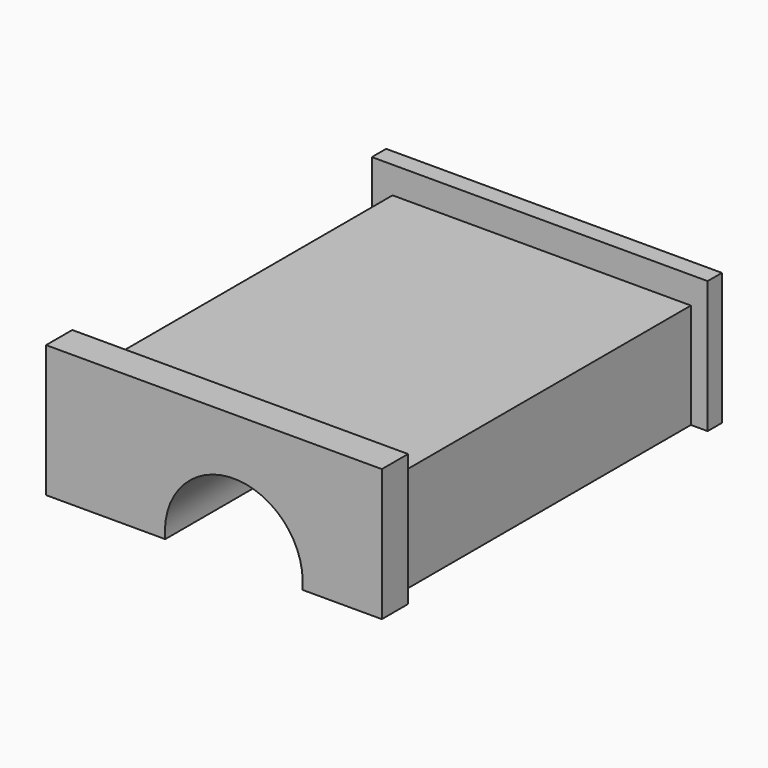
from build123d import *

# Parameters (mm, degrees)
F1_DEPTH = 80
F2_W     = 70.4753454775
F2_H     = 5.0733083159
F3_DEPTH = 64
F4_W     = 3.8940757513
F4_H     = 70.4753454775
F5_DEPTH = 25
F4_W_2   = 3.1526088715
F6_DEPTH = 25


with BuildPart() as f1:
    # F0 (on Front) → F1 (new body)
    with BuildSketch(Plane.XZ):
        with BuildLine():
            Line((-37.5057458878, 24.8617598087), (-37.5057458878, 0))
            Line((-37.5057458878, 0), (-15.074656345, 0))
            ThreePointArc((-15.074656345, 0), (-2.17074994, 14.2445032908), (10.733156465, 0))
            Line((10.733156465, 0), (25.6872158498, 0))
            Line((25.6872158498, 0), (25.6872158498, 24.8617598087))
            Line((25.6872158498, 24.8617598087), (-37.5057458878, 24.8617598087))
        make_face()
    extrude(amount=F1_DEPTH)

    # F2 (on face) → F3 (cut)
    with BuildSketch(Plane(origin=(-37.5057458878, 0, 0), x_dir=(0, -1, 0), z_dir=(-1, 0, 0))):
        with Locations((38.6002035812, 22.3251056507)):
            Rectangle(F2_W, F2_H)
    extrude(amount=-F3_DEPTH, mode=Mode.SUBTRACT)

    # F4 (on face) → F5 (cut)
    with BuildSketch(Plane.XY.offset(19.7884514928)):
        with Locations((-35.5587080121, -38.6002035812)):
            Rectangle(F4_W, F4_H)
    extrude(amount=-F5_DEPTH, mode=Mode.SUBTRACT)

    # F4 (on face) → F6 (cut)
    with BuildSketch(Plane.XY.offset(19.7884514928)):
        with Locations((24.110911414, -38.6002035812)):
            Rectangle(F4_W_2, F4_H)
        with Locations((-35.5587080121, -38.6002035812)):
            Rectangle(F4_W, F4_H)
    extrude(amount=-F6_DEPTH, mode=Mode.SUBTRACT)


solid = f1.part
